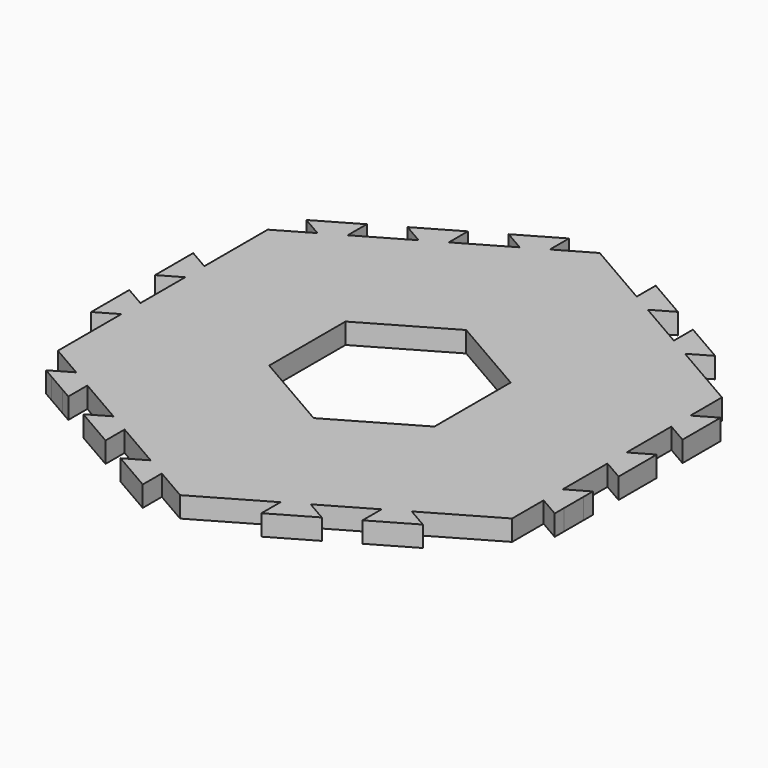
from build123d import *

# Parameters (mm, degrees)
F4_DEPTH = 2
F5_DEPTH = 2
F6_COUNT = 2
F6_ANGLE = 60
F8_DEPTH = 2
F9_COUNT = 3
F9_ANGLE = 240


with BuildPart() as f4:
    # F3 (on Top) → F4 (new body)
    with BuildSketch(Plane.XY):
        Polygon((-8, 4.6188021535), (-20, 11.5470053838), (-20, -11.5470053838), (-8, -4.6188021535), align=None)
        Polygon((-18, -9.237604307), (-18, 9.237604307), (-10, 4.6188021535), (-10, -4.6188021535), align=None, mode=Mode.SUBTRACT)
        Polygon((-10, 4.6188021535), (-18, 9.237604307), (-18, -9.237604307), (-10, -4.6188021535), align=None)
    extrude(amount=F4_DEPTH)

    # F3 (on Top) → F5 (join)
    with BuildSketch(Plane.XY):
        Polygon((-20, -11.5470053838), (-20, 11.5470053838), (-22, 12.7017059222), (-22, -12.7017059222), align=None)
    extrude(amount=F5_DEPTH)

    # F6: F4 ×2 about axis
    f6_axis = Axis((0, 0, 0), (0, 0, 1))


with BuildPart() as f4_1:
    add(f4.part)
    for i in range(1, F6_COUNT):
        add(f4.part.rotate(f6_axis, i * F6_ANGLE / (F6_COUNT - 1)))

    # F7 (on Top) → F8 (join, through all)
    with BuildSketch(Plane.XY):
        Polygon((-24, 1.5588457268), (-22, 2.7135462652), (-22, 5.0229473419), (-24, 6.1776478803), (-24, 5.0229473419), (-24, 2.7135462652), align=None)
        Polygon((-24, -6.1776478803), (-22, -5.0229473419), (-22, -2.7135462652), (-24, -1.5588457268), (-24, -2.7135462652), (-24, -5.0229473419), align=None)
        Polygon((-19.7, -16.3390126181), (-17.7, -17.4937131564), (-16.7, -18.0710634256), (-16.7, -15.7616623489), (-18.7, -14.6069618105), (-20.7, -15.7616623489), align=None)
        Polygon((-13, -20.2072594216), (-11, -21.36195996), (-10, -21.9393102292), (-10, -19.6299091524), (-12, -18.4752086141), (-14, -19.6299091524), align=None)
        Polygon((-7.3, -23.498155956), (-6.3, -24.0755062252), (-4.3, -25.2302067636), (-3.3, -25.8075570328), (-3.3, -23.498155956), (-5.3, -22.3434554176), align=None)
    extrude(amount=F8_DEPTH)

    # F9: F4 ×3 about axis
    f9_axis = Axis((0, 0, 0), (0, 0, 1))


with BuildPart() as f4_2:
    add(f4_1.part)
    for i in range(1, F9_COUNT):
        add(f4_1.part.rotate(f9_axis, i * F9_ANGLE / (F9_COUNT - 1)))


solid = f4_2.part
